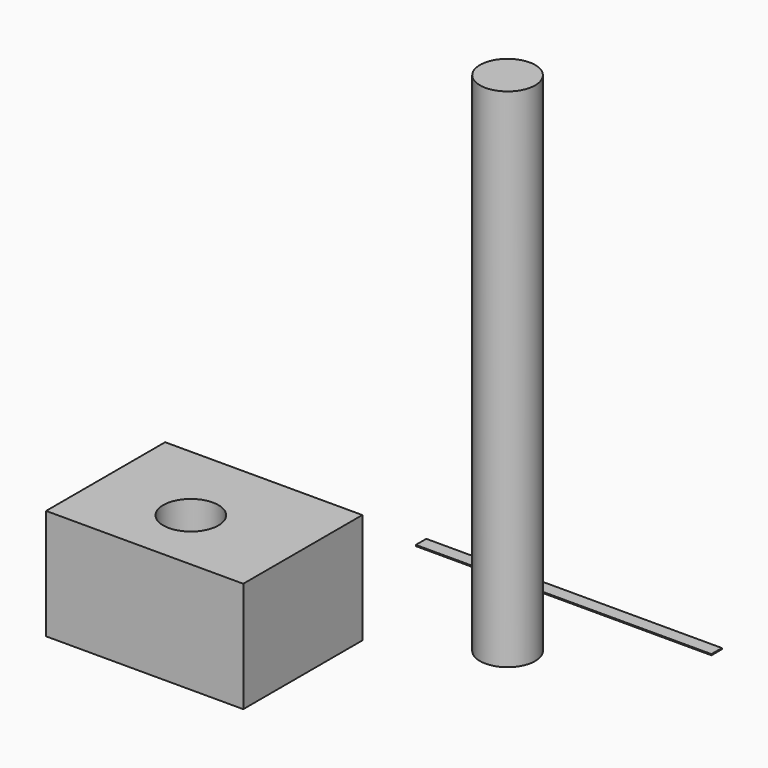
from build123d import *

# Parameters (mm, degrees)
F0_W     = 67.995434
F0_H     = 3.022018
F1_DEPTH = 0.254
F2_W     = 45.353265
F2_H     = 34.228876
F3_DEPTH = 25.4
F5_D     = 12.7
F6_R     = 6.35
F7_DEPTH = 116.586


with BuildPart() as f1:
    # F0 (on Top) → F1 (new body)
    with BuildSketch(Plane.XY):
        with Locations((4.292925, 13.867795)):
            Rectangle(F0_W, F0_H)
    extrude(amount=-F1_DEPTH)


with BuildPart() as f3:
    # F2 (on Top) → F3 (new body)
    with BuildSketch(Plane.XY):
        with Locations((-36.653424, -39.79107)):
            Rectangle(F2_W, F2_H)
    extrude(amount=F3_DEPTH)

    # F5 (through all)
    with Locations(Plane.XY.offset(25.4)):
        with Locations((-37.968174, -41.984908)):
            Hole(F5_D / 2)


with BuildPart() as f7:
    # F6 (on Top) → F7 (new body)
    with BuildSketch(Plane.XY):
        with Locations((8.929071, -9.550638)):
            Circle(F6_R)
    extrude(amount=F7_DEPTH)


solid = Compound([f1.part, f3.part, f7.part])
